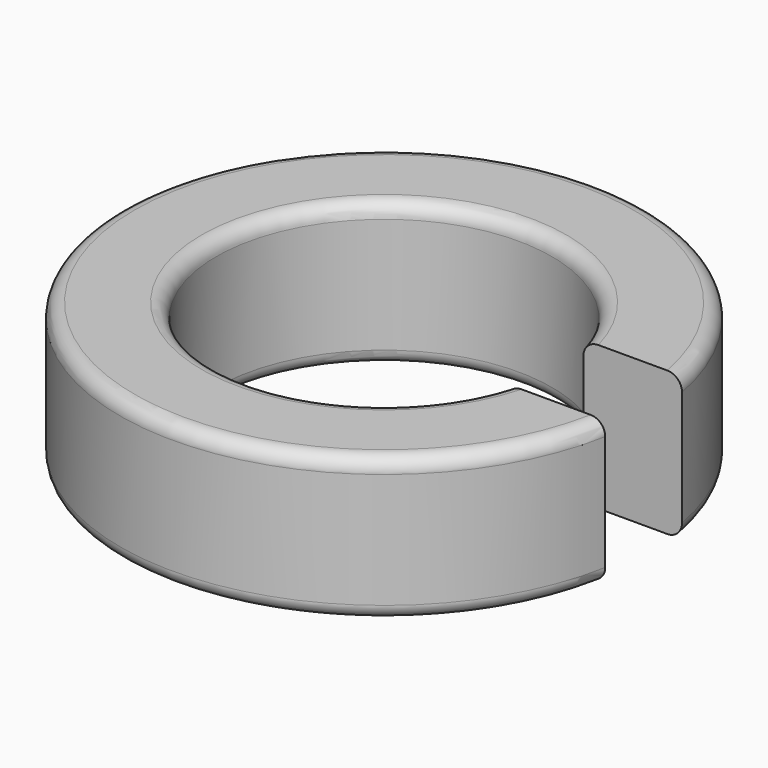
from build123d import *

# Parameters (mm, degrees)
F2_W     = 4.224532
F2_H     = 2
F3_DEPTH = 4


with BuildPart() as f1:
    # F0 (on Front) → F1 (revolve)
    with BuildSketch(Plane.XZ):
        with BuildLine():
            ThreePointArc((3.5, 0.3), (3.587868, 0.087868), (3.8, 0))
            Line((3.8, 0), (5.2, 0))
            ThreePointArc((5.2, 0), (5.412132, 0.087868), (5.5, 0.3))
            Line((5.5, 0.3), (5.5, 2.7))
            ThreePointArc((5.5, 2.7), (5.412132, 2.912132), (5.2, 3))
            Line((5.2, 3), (3.8, 3))
            ThreePointArc((3.8, 3), (3.587868, 2.912132), (3.5, 2.7))
            Line((3.5, 2.7), (3.5, 0.3))
        make_face()
    revolve(axis=Axis((0, 0, 3.851013), (0, 0, 1)))

    # F2 (on Top) → F3 (cut)
    with BuildSketch(Plane.XY):
        with Locations((4.5, 0)):
            Rectangle(F2_W, F2_H)
    extrude(amount=F3_DEPTH, mode=Mode.SUBTRACT)


solid = f1.part
